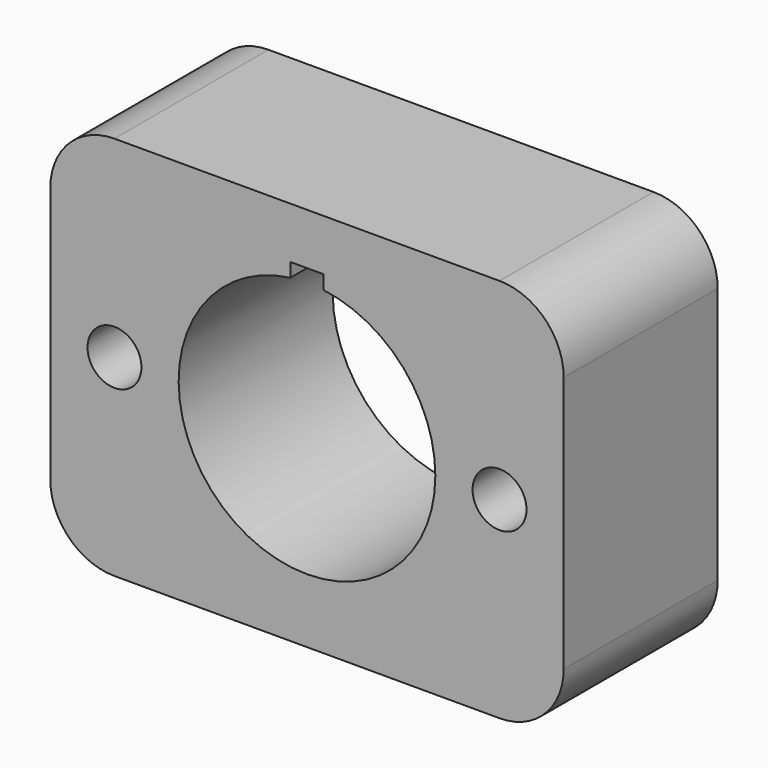
from build123d import *

# Parameters (mm, degrees)
F0_R     = 2.667
F1_DEPTH = 19.05


with BuildPart() as f1:
    # F0 (on Front) → F1 (new body)
    with BuildSketch(Plane.XZ):
        with BuildLine():
            ThreePointArc((25.4, 12.7), (23.540128, 17.190128), (19.05, 19.05))
            Line((19.05, 19.05), (-19.05, 19.05))
            ThreePointArc((-19.05, 19.05), (-23.540128, 17.190128), (-25.4, 12.7))
            Line((-25.4, 12.7), (-25.4, -12.7))
            ThreePointArc((-25.4, -12.7), (-23.540128, -17.190128), (-19.05, -19.05))
            Line((-19.05, -19.05), (19.05, -19.05))
            ThreePointArc((19.05, -19.05), (23.540128, -17.190128), (25.4, -12.7))
            Line((25.4, -12.7), (25.4, 12.7))
        make_face()
        with Locations((-19.05, 0)):
            Circle(F0_R, mode=Mode.SUBTRACT)
        with BuildLine():
            ThreePointArc((1.651, 12.592228), (9.546143, 8.376225), (12.7, 0))
            ThreePointArc((12.7, 0), (-8.376225, -9.546143), (-1.651, 12.592228))
            Line((-1.651, 12.592228), (-1.651, 13.97))
            Line((-1.651, 13.97), (1.651, 13.97))
            Line((1.651, 13.97), (1.651, 12.592228))
        make_face(mode=Mode.SUBTRACT)
        with Locations((19.05, 0)):
            Circle(F0_R, mode=Mode.SUBTRACT)
    extrude(amount=F1_DEPTH)


solid = f1.part
